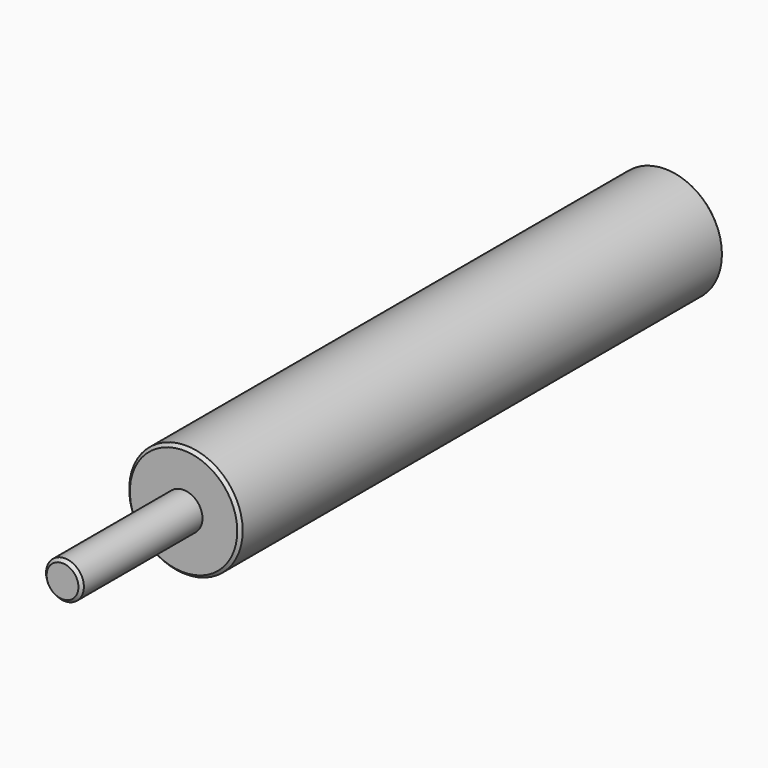
from build123d import *

# Parameters (mm, degrees)
F0_R     = 9.525
F1_DEPTH = 101.6
F2_W     = 9.525
F2_H     = 2.5618169457
F2_W_2   = 8.5228569806
F3_DEPTH = 25.4
F4_R     = 3.175
F5_DEPTH = 25.4
F6_SIZE  = 0.508


with BuildPart() as f1:
    # F0 (on Front) → F1 (new body)
    with BuildSketch(Plane.XZ):
        Circle(F0_R)
    extrude(amount=F1_DEPTH)

    # F2 (on Front) → F3 (cut)
    with BuildSketch(Plane.XZ):
        with Locations((-4.7625, 0)):
            Rectangle(F2_W, F2_H)
        with Locations((4.2614284903, 0)):
            Rectangle(F2_W_2, F2_H)
    extrude(amount=F3_DEPTH, mode=Mode.SUBTRACT)

    # F4 (on face) → F5 (join)
    with BuildSketch(Plane.XZ.offset(101.6)):
        Circle(F4_R)
    extrude(amount=F5_DEPTH)

    # F6
    f6_edges = [f1.edges().sort_by_distance(p)[0] for p in [
        (-3.175, -127, 0),
        (-9.525, -101.6, 0),
        (0.641914, 0, 9.503345),
        (0.641914, 0, -9.503345),
    ]]
    chamfer(f6_edges, length=F6_SIZE)


solid = f1.part
